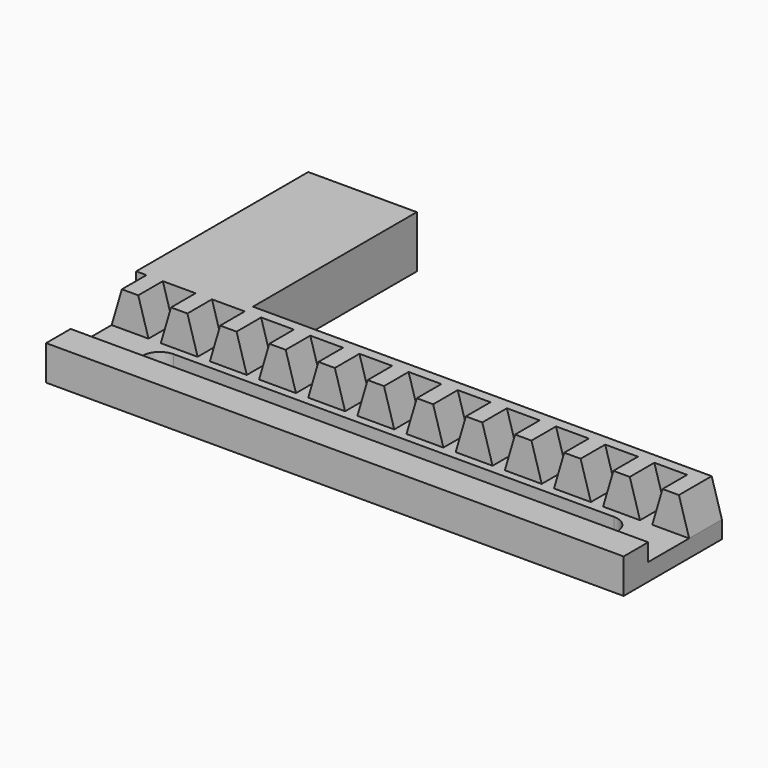
from build123d import *

# Parameters (mm, degrees)
F1_DEPTH  = 3.81
F4_DEPTH  = 71.628
F6_DEPTH  = 1.27
F7_W      = 13.462
F7_H      = 6.477
F8_DEPTH  = 25.4
F9_W      = 54.61
F9_H      = 4.318
F10_DEPTH = 25.4


with BuildPart() as f1:
    # F0 (on Front) → F1 (new body)
    with BuildSketch(Plane.XZ):
        Polygon((-38.4448663006, 16.8945933835), (-38.4448663006, 14.7355933835), (33.1831336994, 14.7355933835), (33.1831336994, 16.8945933835), (28.6111336994, 16.8945933835), (27.0871336994, 16.8945933835), (22.5151336994, 16.8945933835), (20.9911336994, 16.8945933835), (16.4191336994, 16.8945933835), (14.8951336994, 16.8945933835), (10.3231336994, 16.8945933835), (8.7991336994, 16.8945933835), (4.2271336994, 16.8945933835), (2.7031336994, 16.8945933835), (-1.8688663006, 16.8945933835), (-3.3928663006, 16.8945933835), (-7.9648663006, 16.8945933835), (-9.4888663006, 16.8945933835), (-14.0608663006, 16.8945933835), (-15.5848663006, 16.8945933835), (-20.1568663006, 16.8945933835), (-21.6808663006, 16.8945933835), (-26.2528663006, 16.8945933835), (-27.7768663006, 16.8945933835), (-32.3488663006, 16.8945933835), (-33.8728663006, 16.8945933835), align=None)
        Polygon((-37.1748663006, 21.2125933835), (-38.4448663006, 16.8945933835), (-33.8728663006, 16.8945933835), (-35.1428663006, 21.2125933835), align=None)
        Polygon((28.6111336994, 16.8945933835), (33.1831336994, 16.8945933835), (31.9131336994, 21.2125933835), (29.8811336994, 21.2125933835), align=None)
        Polygon((-31.0788663006, 21.2125933835), (-32.3488663006, 16.8945933835), (-27.7768663006, 16.8945933835), (-29.0468663006, 21.2125933835), align=None)
        Polygon((22.5151336994, 16.8945933835), (27.0871336994, 16.8945933835), (25.8171336994, 21.2125933835), (23.7851336994, 21.2125933835), align=None)
        Polygon((-24.9828663006, 21.2125933835), (-26.2528663006, 16.8945933835), (-21.6808663006, 16.8945933835), (-22.9508663006, 21.2125933835), align=None)
        Polygon((16.4191336994, 16.8945933835), (20.9911336994, 16.8945933835), (19.7211336994, 21.2125933835), (17.6891336994, 21.2125933835), align=None)
        Polygon((-18.8868663006, 21.2125933835), (-20.1568663006, 16.8945933835), (-15.5848663006, 16.8945933835), (-16.8548663006, 21.2125933835), align=None)
        Polygon((10.3231336994, 16.8945933835), (14.8951336994, 16.8945933835), (13.6251336994, 21.2125933835), (11.5931336994, 21.2125933835), align=None)
        Polygon((-12.7908663006, 21.2125933835), (-14.0608663006, 16.8945933835), (-9.4888663006, 16.8945933835), (-10.7588663006, 21.2125933835), align=None)
        Polygon((4.2271336994, 16.8945933835), (8.7991336994, 16.8945933835), (7.5291336994, 21.2125933835), (5.4971336994, 21.2125933835), align=None)
        Polygon((-6.6948663006, 21.2125933835), (-7.9648663006, 16.8945933835), (-3.3928663006, 16.8945933835), (-4.6628663006, 21.2125933835), align=None)
        Polygon((-1.8688663006, 16.8945933835), (2.7031336994, 16.8945933835), (1.4331336994, 21.2125933835), (-0.5988663006, 21.2125933835), align=None)
    extrude(amount=F1_DEPTH)

    # F3 (on plane+point) → F4 (join, through all)
    with BuildSketch(Plane.YZ.offset(33.1831336994)):
        Polygon((-13.97, 14.7355933835), (-3.81, 14.7355933835), (-3.81, 16.8945933835), (-10.16, 16.8945933835), (-10.16, 19.0535933835), (-13.97, 19.0535933835), (-13.97, 16.8945933835), align=None)
    extrude(amount=-F4_DEPTH)

    # F5 (on face) → F6 (join)
    with BuildSketch(Plane(origin=(0, 0, 0), x_dir=(-1, 0, 0), z_dir=(0, 1, 0))):
        Polygon((33.8728663006, 16.8945933835), (35.1428663006, 21.2125933835), (31.0788663006, 21.2125933835), (32.3488663006, 16.8945933835), align=None)
        Polygon((27.7768663006, 16.8945933835), (29.0468663006, 21.2125933835), (24.9828663006, 21.2125933835), (26.2528663006, 16.8945933835), align=None)
        Polygon((21.6808663006, 16.8945933835), (22.9508663006, 21.2125933835), (18.8868663006, 21.2125933835), (20.1568663006, 16.8945933835), align=None)
        Polygon((15.5848663006, 16.8945933835), (16.8548663006, 21.2125933835), (12.7908663006, 21.2125933835), (14.0608663006, 16.8945933835), align=None)
        Polygon((9.4888663006, 16.8945933835), (10.7588663006, 21.2125933835), (6.6948663006, 21.2125933835), (7.9648663006, 16.8945933835), align=None)
        Polygon((3.3928663006, 16.8945933835), (4.6628663006, 21.2125933835), (0.5988663006, 21.2125933835), (1.8688663006, 16.8945933835), align=None)
        Polygon((-1.4331336994, 21.2125933835), (-5.4971336994, 21.2125933835), (-4.2271336994, 16.8945933835), (-2.7031336994, 16.8945933835), align=None)
        Polygon((-7.5291336994, 21.2125933835), (-11.5931336994, 21.2125933835), (-10.3231336994, 16.8945933835), (-8.7991336994, 16.8945933835), align=None)
        Polygon((-13.6251336994, 21.2125933835), (-17.6891336994, 21.2125933835), (-16.4191336994, 16.8945933835), (-14.8951336994, 16.8945933835), align=None)
        Polygon((-19.7211336994, 21.2125933835), (-23.7851336994, 21.2125933835), (-22.5151336994, 16.8945933835), (-20.9911336994, 16.8945933835), align=None)
        Polygon((-25.8171336994, 21.2125933835), (-29.8811336994, 21.2125933835), (-28.6111336994, 16.8945933835), (-27.0871336994, 16.8945933835), align=None)
        Polygon((-33.1831336994, 14.7355933835), (38.4448663006, 14.7355933835), (38.4448663006, 16.8945933835), (37.1748663006, 21.2125933835), (35.1428663006, 21.2125933835), (33.8728663006, 16.8945933835), (32.3488663006, 16.8945933835), (31.0788663006, 21.2125933835), (29.0468663006, 21.2125933835), (27.7768663006, 16.8945933835), (26.2528663006, 16.8945933835), (24.9828663006, 21.2125933835), (22.9508663006, 21.2125933835), (21.6808663006, 16.8945933835), (20.1568663006, 16.8945933835), (18.8868663006, 21.2125933835), (16.8548663006, 21.2125933835), (15.5848663006, 16.8945933835), (14.0608663006, 16.8945933835), (12.7908663006, 21.2125933835), (10.7588663006, 21.2125933835), (9.4888663006, 16.8945933835), (7.9648663006, 16.8945933835), (6.6948663006, 21.2125933835), (4.6628663006, 21.2125933835), (3.3928663006, 16.8945933835), (1.8688663006, 16.8945933835), (0.5988663006, 21.2125933835), (-1.4331336994, 21.2125933835), (-2.7031336994, 16.8945933835), (-4.2271336994, 16.8945933835), (-5.4971336994, 21.2125933835), (-7.5291336994, 21.2125933835), (-8.7991336994, 16.8945933835), (-10.3231336994, 16.8945933835), (-11.5931336994, 21.2125933835), (-13.6251336994, 21.2125933835), (-14.8951336994, 16.8945933835), (-16.4191336994, 16.8945933835), (-17.6891336994, 21.2125933835), (-19.7211336994, 21.2125933835), (-20.9911336994, 16.8945933835), (-22.5151336994, 16.8945933835), (-23.7851336994, 21.2125933835), (-25.8171336994, 21.2125933835), (-27.0871336994, 16.8945933835), (-28.6111336994, 16.8945933835), (-29.8811336994, 21.2125933835), (-31.9131336994, 21.2125933835), (-33.1831336994, 16.8945933835), align=None)
        Polygon((37.1748663006, 21.2125933835), (38.4448663006, 16.8945933835), (38.4448663006, 21.2125933835), align=None)
    extrude(amount=F6_DEPTH)

    # F7 (on face) → F8 (join)
    with BuildSketch(Plane(origin=(0, 1.27, 0), x_dir=(-1, 0, 0), z_dir=(0, 1, 0))):
        with Locations((31.7138663006, 17.9740933835)):
            Rectangle(F7_W, F7_H)
    extrude(amount=F8_DEPTH)

    # F9 (on face) → F10 (cut)
    with BuildSketch(Plane.XY.offset(16.8945933835)):
        with Locations((-2.6308663007, -6.985)):
            Rectangle(F9_W, F9_H)
        with BuildLine():
            Line((24.6741336994, -4.826), (24.6741336994, -9.144))
            ThreePointArc((24.6741336994, -9.144), (26.8331336994, -6.985), (24.6741336994, -4.826))
        make_face()
        with BuildLine():
            ThreePointArc((-29.9358663007, -4.826), (-32.0948663007, -6.985), (-29.9358663007, -9.144))
            Line((-29.9358663007, -9.144), (-29.9358663007, -4.826))
        make_face()
    extrude(amount=-F10_DEPTH, mode=Mode.SUBTRACT)


solid = f1.part
